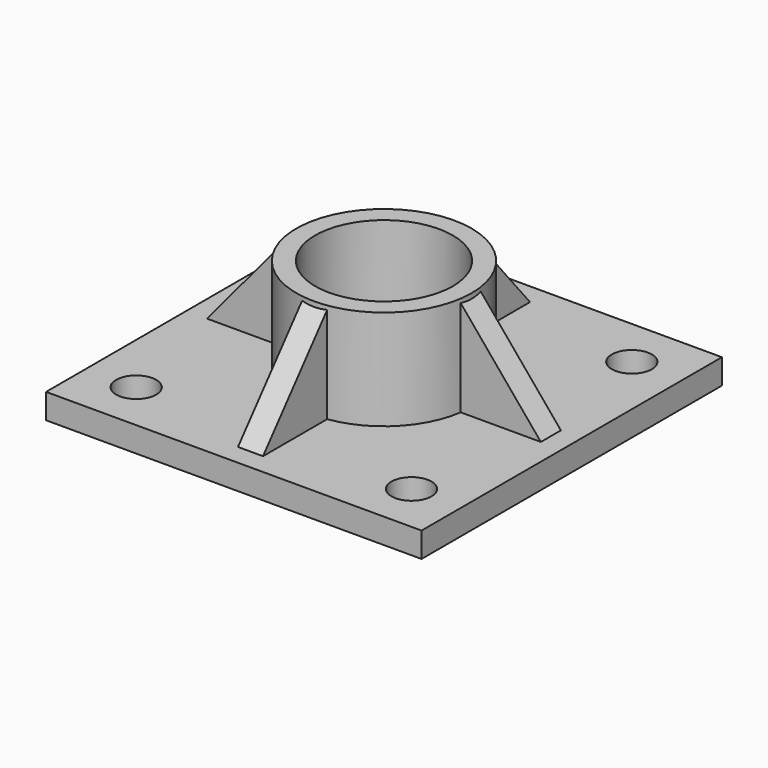
from build123d import *

# Parameters (mm, degrees)
CYLINDER001_R     = 5.5
CYLINDER001_DEPTH = 10
BOX001_W          = 60
BOX001_H          = 60
BOX001_DEPTH      = 60
PAD_DEPTH         = 2
PAD001_DEPTH      = 2
CYLINDER_R        = 7
CYLINDER_DEPTH    = 10
SKETCH_R          = 5.5
POCKET_DEPTH      = 10.001
BOX_W             = 30
BOX_H             = 30
BOX_DEPTH         = 2
SKETCH001_R       = 1.6
POCKET001_DEPTH   = 2.001


with BuildPart() as cylinder001:
    # Cylinder001 → Cylinder001 (new body)
    with BuildSketch(Plane.XY):
        Circle(CYLINDER001_R)
    extrude(amount=CYLINDER001_DEPTH)


with BuildPart() as cube001:
    # Box001 → Box001 (new body)
    with BuildSketch(Plane(origin=(-30, -30, 10), x_dir=(1, 0, 0), z_dir=(0, 0, 1))):
        with Locations((30, 30)):
            Rectangle(BOX001_W, BOX001_H)
    extrude(amount=BOX001_DEPTH)


with BuildPart() as pad:
    # Sketch002 → Pad (new body)
    with BuildSketch(Plane.XZ.offset(-1)):
        Polygon((-15, 0), (0, 18), (15, 0), align=None)
    extrude(amount=PAD_DEPTH)


with BuildPart() as pad001:
    # Sketch003 → Pad001 (new body)
    with BuildSketch(Plane.YZ.offset(-1)):
        Polygon((-15, 0), (0, 18), (15, 0), align=None)
    extrude(amount=PAD001_DEPTH)


with BuildPart() as pocket:
    # Cylinder → Cylinder (new body)
    with BuildSketch(Plane.XY):
        Circle(CYLINDER_R)
    extrude(amount=CYLINDER_DEPTH)

    # Sketch → Pocket (cut, through all)
    with BuildSketch(Plane.XY.offset(10)):
        Circle(SKETCH_R)
    extrude(amount=-POCKET_DEPTH, mode=Mode.SUBTRACT)


with BuildPart() as cut001:
    # Box → Box (new body)
    with BuildSketch(Plane(origin=(-15, -15, 0), x_dir=(1, 0, 0), z_dir=(0, 0, 1))):
        with Locations((15, 15)):
            Rectangle(BOX_W, BOX_H)
    extrude(amount=BOX_DEPTH)

    # Sketch001 → Pocket001 (cut, through all)
    with BuildSketch(Plane(origin=(-15, -15, 2), x_dir=(1, 0, 0), z_dir=(0, 0, 1))):
        with Locations((4, 4)):
            Circle(SKETCH001_R)
        with Locations((26, 26)):
            Circle(SKETCH001_R)
        with Locations((26, 4)):
            Circle(SKETCH001_R)
        with Locations((4, 26)):
            Circle(SKETCH001_R)
    extrude(amount=-POCKET001_DEPTH, mode=Mode.SUBTRACT)

    # Fusion: union Pad, Pad001, Pocket
    add(pad.part)
    add(pad001.part)
    add(pocket.part)

    # Cut: cut Cube001
    add(cube001.part, mode=Mode.SUBTRACT)

    # Cut001: cut Cylinder001
    add(cylinder001.part, mode=Mode.SUBTRACT)


solid = cut001.part
